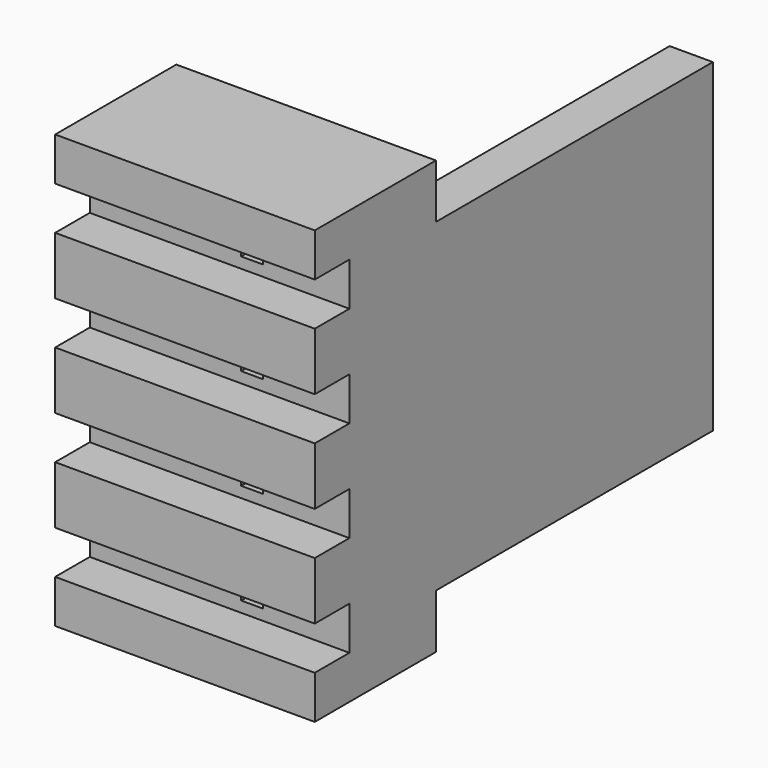
from build123d import *

# Parameters (mm, degrees)
F1_DEPTH = 10
F2_W     = 8
F2_H     = 1.25
F3_DEPTH = 25
F4_W     = 0.5
F4_H     = 0.5
F5_DEPTH = 25
F6_W     = 6
F6_H     = 1
F7_DEPTH = 1


with BuildPart() as f1:
    # F0 (on Top) → F1 (new body)
    with BuildSketch(Plane.XY):
        Polygon((0, 3.5), (0, 0), (6, 0), (6, 11.5), (5, 11.5), (5, 3.5), align=None)
    extrude(amount=F1_DEPTH)

    # F2 (on face) → F3 (cut)
    with BuildSketch(Plane(origin=(5, 0, 0), x_dir=(0, -1, 0), z_dir=(-1, 0, 0))):
        with Locations((-7.5, 0.625)):
            Rectangle(F2_W, F2_H)
        with Locations((-7.5, 9.375)):
            Rectangle(F2_W, F2_H)
    extrude(amount=-F3_DEPTH, mode=Mode.SUBTRACT)

    # F4 (on face) → F5 (cut)
    with BuildSketch(Plane.XZ):
        with Locations((3.75, 8.5)):
            Rectangle(F4_W, F4_H)
        with Locations((3.75, 1.5)):
            Rectangle(F4_W, F4_H)
        with Locations((3.75, 6.166667)):
            Rectangle(F4_W, F4_H)
        with Locations((3.75, 3.833333)):
            Rectangle(F4_W, F4_H)
    extrude(amount=-F5_DEPTH, mode=Mode.SUBTRACT)

    # F6 (on face) → F7 (cut)
    with BuildSketch(Plane.XZ):
        with Locations((3, 8.5)):
            Rectangle(F6_W, F6_H)
        with Locations((3, 6.166667)):
            Rectangle(F6_W, F6_H)
        with Locations((3, 3.833333)):
            Rectangle(F6_W, F6_H)
        with Locations((3, 1.5)):
            Rectangle(F6_W, F6_H)
    extrude(amount=-F7_DEPTH, mode=Mode.SUBTRACT)


solid = f1.part
